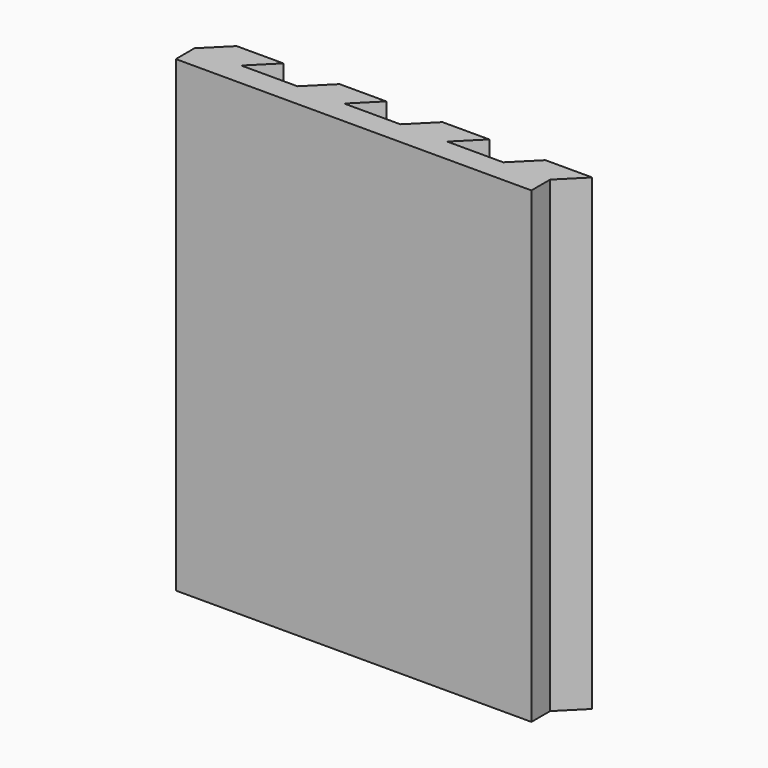
from build123d import *

# Parameters (mm, degrees)
PAD_DEPTH = 50


with BuildPart() as part:
    # Sketch → Pad (new body)
    with BuildSketch(Plane.XY):
        Polygon((0, 0), (38, 0), (38, 2.5), (40.5, 5), (35.5, 5), (33, 2.5), (27, 2.5), (29.5, 5), (24.5, 5), (22, 2.5), (16, 2.5), (18.5, 5), (13.5, 5), (11, 2.5), (5, 2.5), (7.5, 5), (2.5, 5), (0, 2.5), align=None)
    extrude(amount=PAD_DEPTH)


solid = part.part
